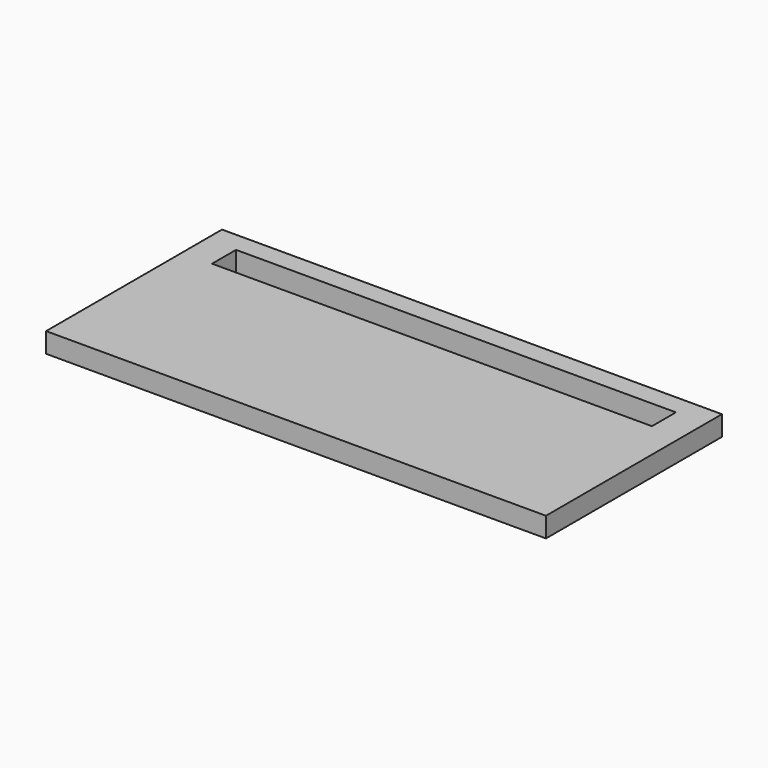
from build123d import *

# Parameters (mm, degrees)
BOX148_W     = 22
BOX148_H     = 1.5
BOX148_DEPTH = 2
BOX146_W     = 25
BOX146_H     = 11
BOX146_DEPTH = 1


with BuildPart() as longledhole010:
    # Box148 → Box148 (new body)
    with BuildSketch(Plane(origin=(1.5, 8.5, 0), x_dir=(1, 0, 0), z_dir=(0, 0, 1))):
        with Locations((11, 0.75)):
            Rectangle(BOX148_W, BOX148_H)
    extrude(amount=BOX148_DEPTH)


with BuildPart() as cut027:
    # Box146 → Box146 (new body)
    with BuildSketch(Plane.XY):
        with Locations((12.5, 5.5)):
            Rectangle(BOX146_W, BOX146_H)
    extrude(amount=BOX146_DEPTH)

    # Cut027: cut LongLedHole010
    add(longledhole010.part, mode=Mode.SUBTRACT)


solid = cut027.part
